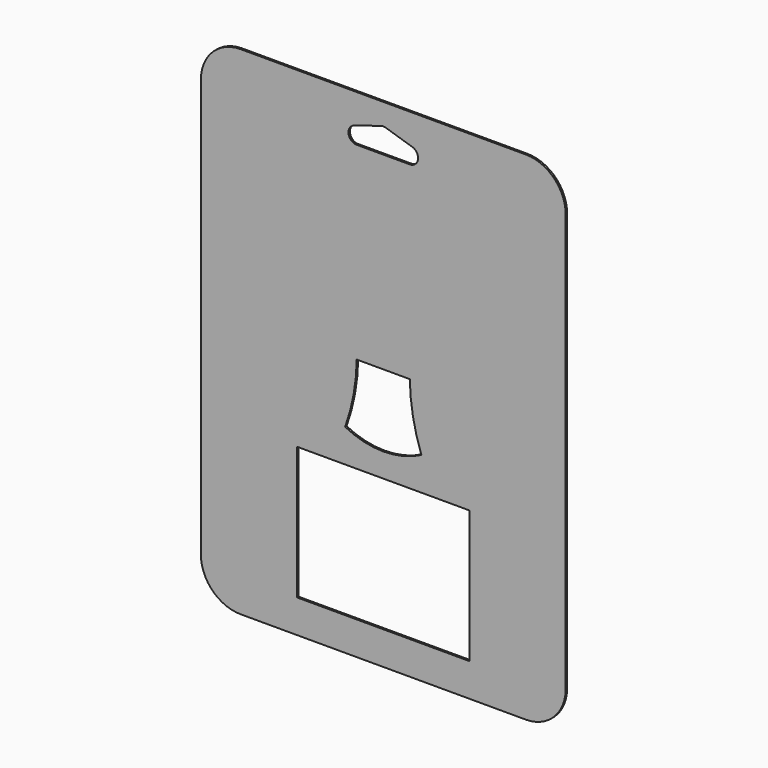
from build123d import *

# Parameters (mm, degrees)
F1_DEPTH = 0.55
F2_W     = 52
F2_H     = 40
F3_DEPTH = 0.551
F5_DEPTH = 0.551


with BuildPart() as f1:
    # F0 (on Front) → F1 (new body)
    with BuildSketch(Plane.XZ):
        with BuildLine():
            ThreePointArc((55, 63), (51.485281, 71.485281), (43, 75))
            Line((43, 75), (-43, 75))
            ThreePointArc((-43, 75), (-51.485281, 71.485281), (-55, 63))
            Line((-55, 63), (-55, -63))
            ThreePointArc((-55, -63), (-51.485281, -71.485281), (-43, -75))
            Line((-43, -75), (43, -75))
            ThreePointArc((43, -75), (51.485281, -71.485281), (55, -63))
            Line((55, -63), (55, 63))
        make_face()
        with BuildLine():
            ThreePointArc((55, 63), (51.485281, 71.485281), (43, 75))
            Line((43, 75), (-43, 75))
            ThreePointArc((-43, 75), (-51.485281, 71.485281), (-55, 63))
            Line((-55, 63), (-55, -63))
            ThreePointArc((-55, -63), (-51.485281, -71.485281), (-43, -75))
            Line((-43, -75), (43, -75))
            ThreePointArc((43, -75), (51.485281, -71.485281), (55, -63))
            Line((55, -63), (55, 63))
        make_face()
    extrude(amount=F1_DEPTH)

    # F2 (on Front) → F3 (cut, through all)
    with BuildSketch(Plane.XZ):
        with BuildLine():
            Line((0, 4), (-8, 4))
            ThreePointArc((-8, 4), (-8.953329, -5.646755), (-11.5, -15))
            ThreePointArc((-11.5, -15), (-5.917981, -17.089922), (0, -17.8))
            ThreePointArc((0, -17.8), (5.917981, -17.089922), (11.5, -15))
            ThreePointArc((11.5, -15), (8.953329, -5.646755), (8, 4))
            Line((8, 4), (0, 4))
        make_face()
        with Locations((0, -45)):
            Rectangle(F2_W, F2_H)
    extrude(amount=F3_DEPTH, mode=Mode.SUBTRACT)

    # F4 (on Front) → F5 (cut, through all)
    with BuildSketch(Plane.XZ):
        with BuildLine():
            Line((-8, 61), (8, 61))
            ThreePointArc((8, 61), (10.471386, 63.122839), (8.745688, 65.8862))
            Line((8.745688, 65.8862), (0.745688, 68.3862))
            ThreePointArc((0.745688, 68.3862), (0, 68.5), (-0.745687, 68.3862))
            Line((-0.745687, 68.3862), (-8.745687, 65.8862))
            ThreePointArc((-8.745687, 65.8862), (-10.471386, 63.122839), (-8, 61))
        make_face()
    extrude(amount=F5_DEPTH, mode=Mode.SUBTRACT)


solid = f1.part
